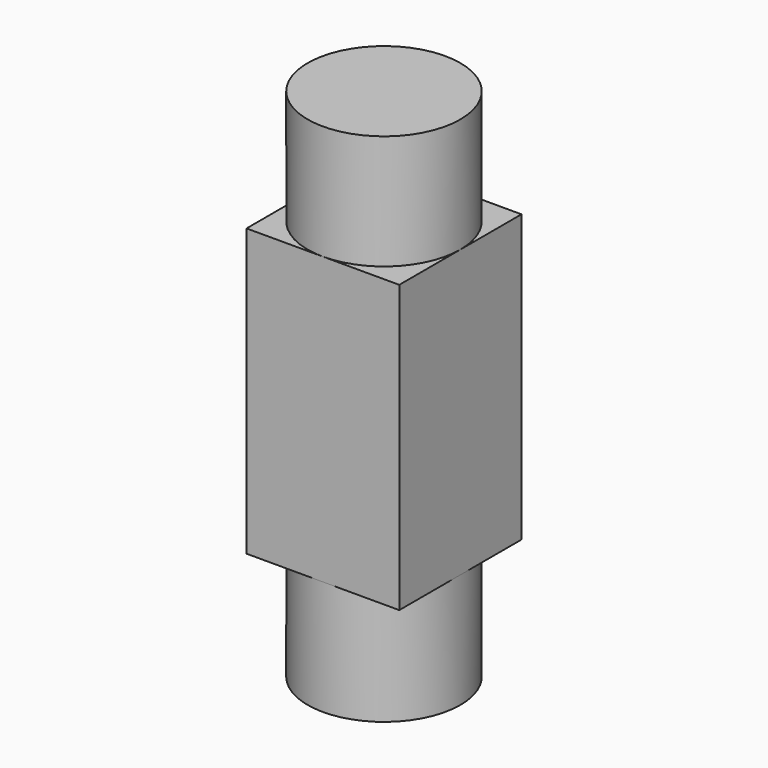
from build123d import *

# Parameters (mm, degrees)
F0_R     = 4
F1_DEPTH = 6
F2_W     = 8
F2_H     = 8
F3_DEPTH = 15
F4_R     = 4
F5_DEPTH = 6


with BuildPart() as f1:
    # F0 (on Top) → F1 (new body)
    with BuildSketch(Plane.XY):
        Circle(F0_R)
    extrude(amount=F1_DEPTH)

    # F2 (on face) → F3 (join)
    with BuildSketch(Plane.XY.offset(6)):
        Rectangle(F2_W, F2_H)
    extrude(amount=F3_DEPTH)

    # F4 (on face) → F5 (join)
    with BuildSketch(Plane.XY.offset(21)):
        Circle(F4_R)
    extrude(amount=F5_DEPTH)


solid = f1.part
